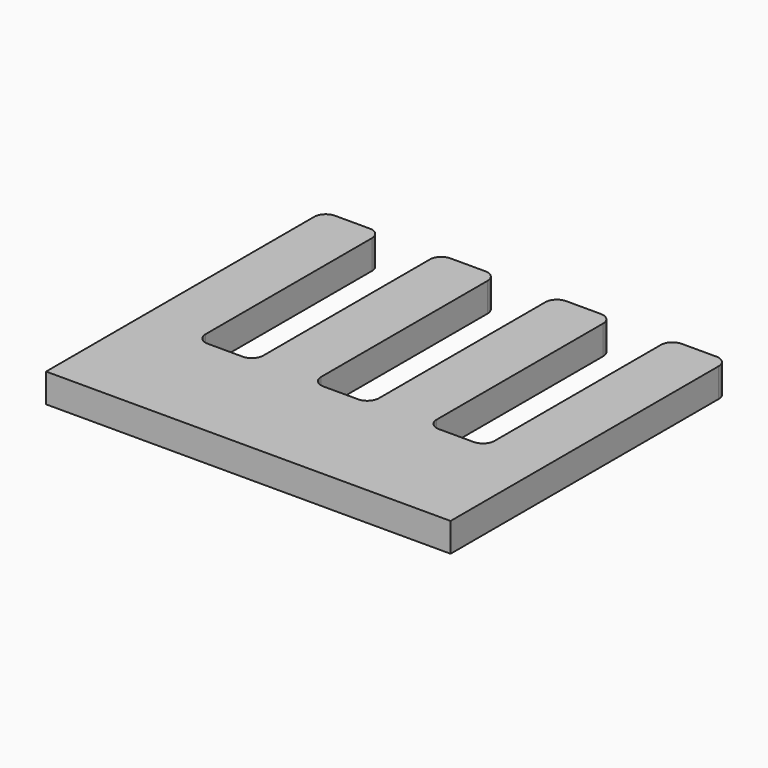
from build123d import *

# Parameters (mm, degrees)
F1_DEPTH = 5
F2_R     = 2


with BuildPart() as f1:
    # F0 (on Top) → F1 (new body)
    with BuildSketch(Plane.XY):
        Polygon((0, 60), (0, 0), (70, 0), (70, 60), (60, 60), (60, 20), (50, 20), (50, 60), (40, 60), (40, 20), (30, 20), (30, 60), (20, 60), (20, 20), (10, 20), (10, 60), align=None)
    extrude(amount=F1_DEPTH)

    # F2
    f2_edges = [f1.edges().sort_by_distance(p)[0] for p in [
        (10, 60, 2.5),
        (0, 60, 2.5),
        (20, 60, 2.5),
        (30, 60, 2.5),
        (40, 60, 2.5),
        (50, 60, 2.5),
        (60, 60, 2.5),
        (70, 60, 2.5),
        (10, 20, 2.5),
        (20, 20, 2.5),
        (30, 20, 2.5),
        (40, 20, 2.5),
        (50, 20, 2.5),
        (60, 20, 2.5),
    ]]
    fillet(f2_edges, radius=F2_R)


solid = f1.part
